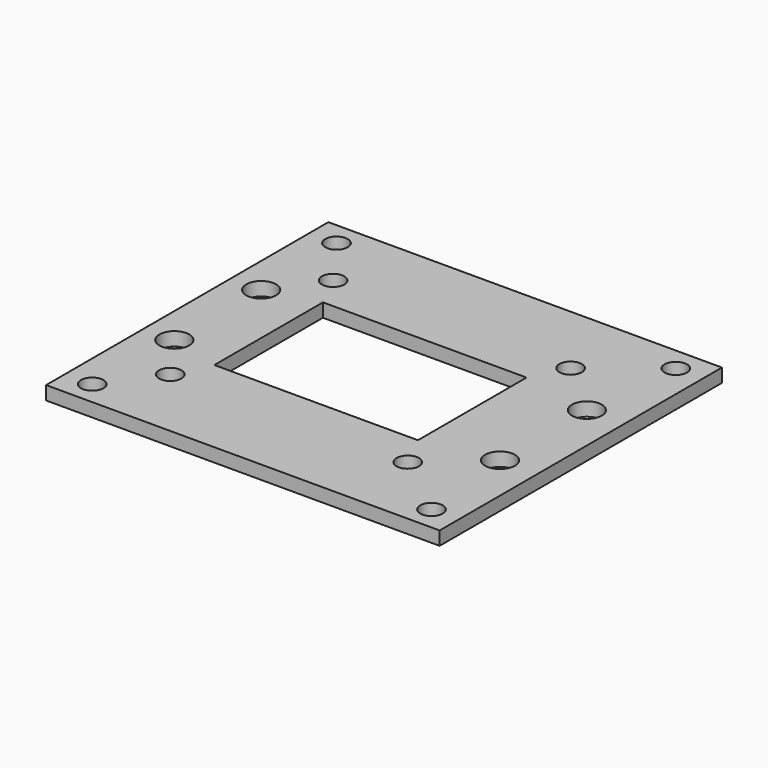
from build123d import *

# Parameters (mm, degrees)
F0_W     = 58
F0_H     = 52
F0_W_2   = 30
F0_H_2   = 20
F1_DEPTH = 2
F2_D     = 3.3
F3_D     = 4.4


with BuildPart() as f1:
    # F0 (on Top) → F1 (new body)
    with BuildSketch(Plane.XY):
        Rectangle(F0_W, F0_H)
        with Locations((-2, 0)):
            Rectangle(F0_W_2, F0_H_2, mode=Mode.SUBTRACT)
    extrude(amount=F1_DEPTH)

    # F2 (through all)
    with Locations(Plane(origin=(0, 0, 0), x_dir=(1, 0, 0), z_dir=(0, 0, -1))):
        with Locations((-19.5, 15), (-25, 22.5), (-19.5, -15), (-25, -22.5), (15.5, 15), (15.5, -15), (25, -22.5), (25, 22.5)):
            Hole(F2_D / 2)

    # F3 (through all)
    with Locations(Plane(origin=(0, 0, 0), x_dir=(1, 0, 0), z_dir=(0, 0, -1))):
        with Locations((-24.5, 8), (-24.5, -8), (23.5, 8), (23.5, -8)):
            Hole(F3_D / 2)


solid = f1.part
